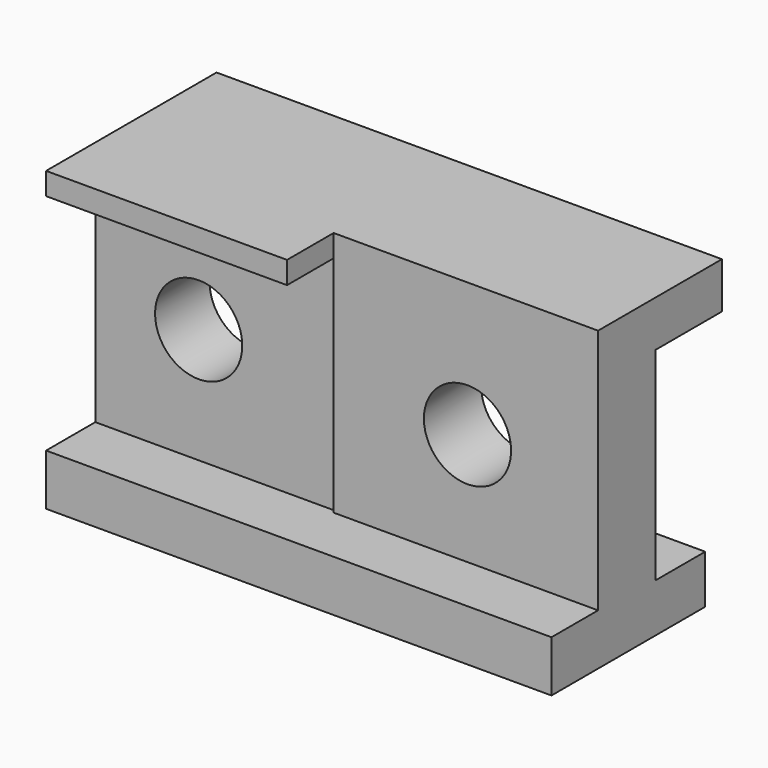
from build123d import *

# Parameters (mm, degrees)
F0_W      = 125.1319237053
F0_H      = 67.682877183
F1_DEPTH  = 12.7
F2_W      = 125.1319237053
F2_H      = 67.682877183
F3_DEPTH  = 60.96
F4_W      = 65.4733031988
F4_H      = 14.4204068929
F5_DEPTH  = 60.96
F6_W      = 59.6586205065
F6_H      = 55.4480541825
F7_DEPTH  = 10.16
F8_DEPTH  = 5.08
F9_DEPTH  = 5.08
F10_W     = 125.1319237053
F10_H     = 50.2397883683
F11_DEPTH = 35.56
F12_W     = 125.1319237053
F12_H     = 20.1084222645
F13_DEPTH = 25.4
F14_W     = 125.1319237053
F14_H     = 8.8336318731
F15_DEPTH = 25.4
F16_W     = 125.1319237053
F16_H     = 6.1016352847
F17_DEPTH = 25.4
F19_D     = 21.59
F21_D     = 21.59


with BuildPart() as f1:
    # F0 (on Top) → F1 (new body)
    with BuildSketch(Plane.XY):
        with Locations((2.9073413461, -5.6983865798)):
            Rectangle(F0_W, F0_H)
    extrude(amount=F1_DEPTH)

    # F2 (on face) → F3 (join)
    with BuildSketch(Plane.XY.offset(12.7)):
        with Locations((2.9073413461, -5.6983865798)):
            Rectangle(F2_W, F2_H)
    extrude(amount=F3_DEPTH)

    # F4 (on face) → F5 (cut)
    with BuildSketch(Plane.XY.offset(73.66)):
        with Locations((32.7366515994, -32.3296217248)):
            Rectangle(F4_W, F4_H)
    extrude(amount=-F5_DEPTH, mode=Mode.SUBTRACT)

    # F6 (on face) → F7 (cut)
    with BuildSketch(Plane.XZ.offset(39.5398251712)):
        with Locations((-29.8293102533, 40.4240270913)):
            Rectangle(F6_W, F6_H)
    extrude(amount=-F7_DEPTH, mode=Mode.SUBTRACT)

    # F8 (add): a face of the model
    f8_faces = [f1.faces().sort_by_distance(p)[0] for p in [
        (32.7366515994, -25.1194182783, 43.18),
    ]]
    extrude(f8_faces, amount=F8_DEPTH)

    # F9 (cut): faces of the model
    f9_faces = [f1.faces().sort_by_distance(p)[0] for p in [
        (32.7366515994, -30.1994182783, 43.18),
        (-29.8293102533, -29.3798251712, 40.4240270913),
    ]]
    extrude(f9_faces, amount=-F9_DEPTH, mode=Mode.SUBTRACT)

    # F10 (on face) → F11 (cut)
    with BuildSketch(Plane(origin=(0, 28.1430520117, 0), x_dir=(-1, 0, 0), z_dir=(0, 1, 0))):
        with Locations((-2.9073413461, 37.1288014576)):
            Rectangle(F10_W, F10_H)
    extrude(amount=-F11_DEPTH, mode=Mode.SUBTRACT)

    # F12 (on face) → F13 (cut)
    with BuildSketch(Plane.XY.offset(12.0089072734)):
        with Locations((2.9073413461, 18.0888408795)):
            Rectangle(F12_W, F12_H)
    extrude(amount=-F13_DEPTH, mode=Mode.SUBTRACT)

    # F14 (on face) → F15 (cut)
    with BuildSketch(Plane.XY.offset(73.66)):
        with Locations((2.9073413461, 23.7262360752)):
            Rectangle(F14_W, F14_H)
    extrude(amount=-F15_DEPTH, mode=Mode.SUBTRACT)

    # F16 (on face) → F17 (cut)
    with BuildSketch(Plane.XY.offset(73.66)):
        with Locations((2.9073413461, 16.2586024962)):
            Rectangle(F16_W, F16_H)
    extrude(amount=-F17_DEPTH, mode=Mode.SUBTRACT)

    # F19 (through all)
    with Locations(Plane.XZ.offset(24.2998251712)):
        with Locations((-34.0740270913, 41.1679372191)):
            Hole(F19_D / 2)

    # F21 (through all)
    with Locations(Plane.XZ.offset(25.1194182783)):
        with Locations((33.1436805427, 40.4701754451)):
            Hole(F21_D / 2)


solid = f1.part
